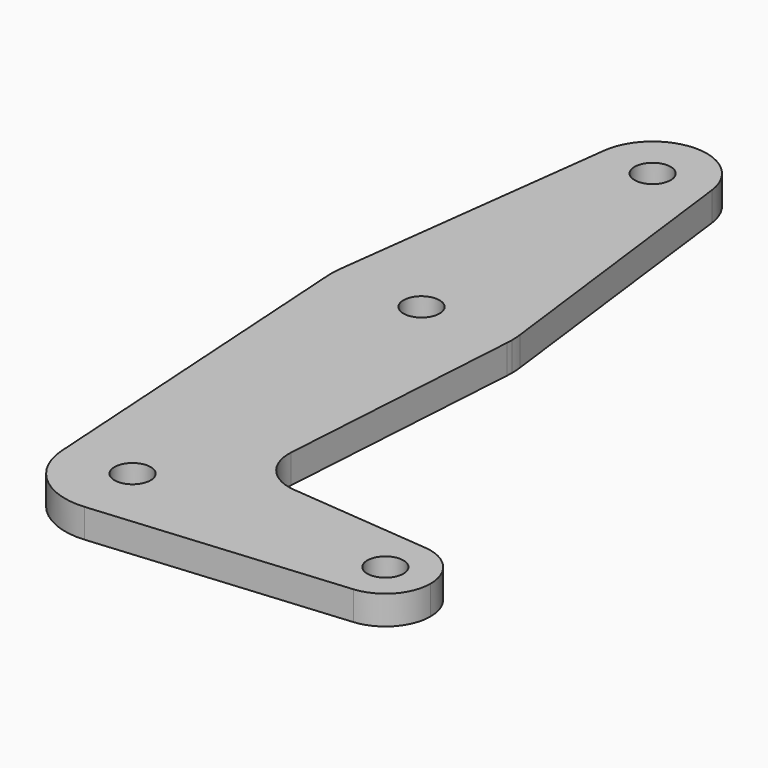
from build123d import *

# Parameters (mm, degrees)
F0_R     = 3.175
F1_DEPTH = 5.08


with BuildPart() as f1:
    # F0 (on Top) → F1 (new body)
    with BuildSketch(Plane.XY):
        with BuildLine():
            ThreePointArc((-9.450293, 89.351166), (-0.596483, 78.654236), (9.525, 88.160541))
            ThreePointArc((9.525, 88.160541), (9.506305, 88.757024), (9.450293, 89.351166))
            ThreePointArc((9.450293, 89.351166), (0, 97.685541), (-9.450293, 89.351166))
        make_face()
        with Locations((0, 88.160541)):
            Circle(F0_R, mode=Mode.SUBTRACT)
        with BuildLine():
            ThreePointArc((9.450293, 89.351166), (9.506305, 88.757024), (9.525, 88.160541))
            ThreePointArc((9.525, 88.160541), (-0.596483, 78.654236), (-9.450293, 89.351166))
            Line((-9.450293, 89.351166), (-15.750488, 39.344916))
            ThreePointArc((-15.750488, 39.344916), (0, 53.235541), (15.750488, 39.344916))
            Line((15.750488, 39.344916), (9.450293, 89.351166))
        make_face()
        with BuildLine():
            ThreePointArc((15.875, 37.360541), (15.843841, 38.354679), (15.750488, 39.344916))
            ThreePointArc((15.750488, 39.344916), (0, 53.235541), (-15.750488, 39.344916))
            ThreePointArc((-15.750488, 39.344916), (-15.867301, 37.854898), (-15.84347, 36.360498))
            ThreePointArc((-15.84347, 36.360498), (0, 21.485541), (15.84347, 36.360498))
            ThreePointArc((15.84347, 36.360498), (15.867116, 36.860271), (15.875, 37.360541))
        make_face()
        with Locations((0, 37.360541)):
            Circle(F0_R, mode=Mode.SUBTRACT)
        with BuildLine():
            ThreePointArc((15.84347, 36.360498), (0, 21.485541), (-15.84347, 36.360498))
            Line((-15.84347, 36.360498), (-11.851246, -26.887512))
            ThreePointArc((-11.851246, -26.887512), (-0.374212, -14.270526), (11.874831, -26.139459))
            ThreePointArc((11.874831, -26.139459), (8.760772, -34.155723), (1.051859, -37.967612))
            Line((1.051859, -37.967612), (45.153095, -34.045758))
            ThreePointArc((45.153095, -34.045758), (36.5125, -26.139459), (45.153095, -18.23316))
            Line((45.153095, -18.23316), (20.298669, -16.022895))
            ThreePointArc((20.298669, -16.022895), (14.971338, -13.283335), (13.068479, -7.603125))
            Line((13.068479, -7.603125), (15.84347, 36.360498))
        make_face()
        with BuildLine():
            ThreePointArc((11.874831, -26.139459), (-0.374212, -14.270526), (-11.851246, -26.887512))
            ThreePointArc((-11.851246, -26.887512), (-7.736204, -35.148497), (1.051859, -37.967612))
            ThreePointArc((1.051859, -37.967612), (8.760772, -34.155723), (11.874831, -26.139459))
        make_face()
        with Locations((0, -26.139459)):
            Circle(F0_R, mode=Mode.SUBTRACT)
        with BuildLine():
            ThreePointArc((45.153095, -18.23316), (36.5125, -26.139459), (45.153095, -34.045758))
            ThreePointArc((45.153095, -34.045758), (50.305968, -31.497775), (52.3875, -26.139459))
            ThreePointArc((52.3875, -26.139459), (50.305968, -20.781144), (45.153095, -18.23316))
        make_face()
        with Locations((44.45, -26.139459)):
            Circle(F0_R, mode=Mode.SUBTRACT)
    extrude(amount=F1_DEPTH)


solid = f1.part
